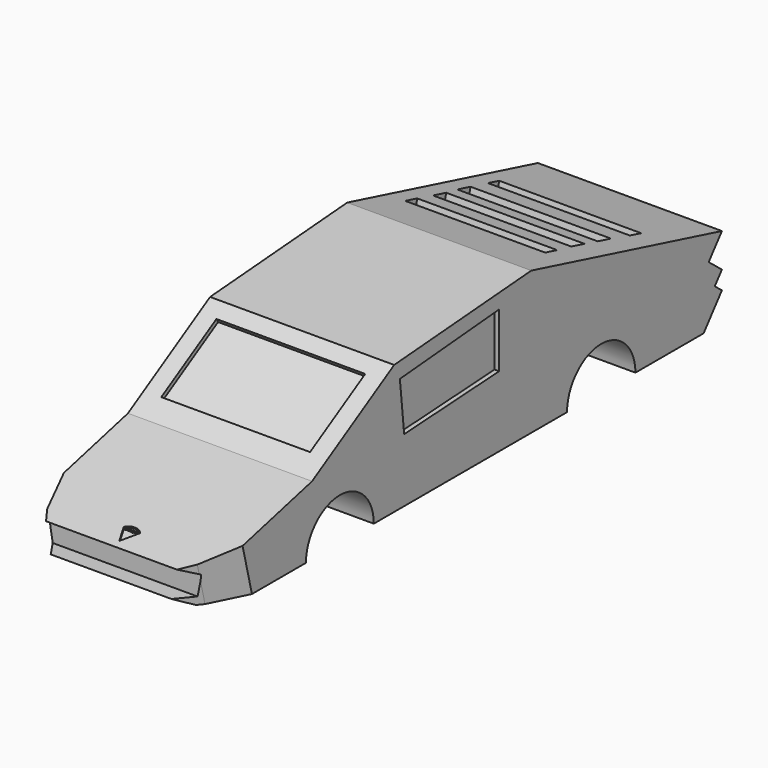
from build123d import *

# Parameters (mm, degrees)
F1_DEPTH  = 20
F4_DEPTH  = 26
F7_DEPTH  = 26
F9_W      = 32.3356613517
F9_H      = 17.4021041021
F10_DEPTH = 25.9
F12_W     = 30.0445994362
F12_H     = 3.6985240877
F12_W_2   = 30.5064963177
F12_H_2   = 3.7062130868
F12_W_3   = 30.8386925608
F12_H_3   = 3.1589530408
F12_W_4   = 30.4109808058
F12_H_4   = 3.369057551
F13_DEPTH = 26.3
F15_W     = 0.0400114234
F15_H     = 0.3749047247
F15_H_2   = 0.2640445573
F16_DEPTH = 25.3
F18_DEPTH = 44.4


with BuildPart() as f1:
    # F0 (on Right) → F1 (new body, symmetric)
    with BuildSketch(Plane.YZ):
        with BuildLine():
            Line((-19.493535161, 17.5538808107), (-41.7995713651, 4.3642241508))
            Line((-41.7995713651, 4.3642241508), (-70.7004368305, -2.8125003446))
            Line((-70.7004368305, -2.8125003446), (-67.2090500593, -4.3642241508))
            Line((-67.2090500593, -4.3642241508), (-67.2090500593, -8.8254315779))
            Line((-67.2090500593, -8.8254315779), (-70.7004368305, -8.8254315779))
            Line((-70.7004368305, -8.8254315779), (-67.2090500593, -10.5711212382))
            Line((-67.2090500593, -10.5711212382), (-43.4498080235, -10.5711212382))
            ThreePointArc((-43.4498080235, -10.5711212382), (-34.2349149287, -1.3562281434), (-25.0200218339, -10.5711212382))
            Line((-25.0200218339, -10.5711212382), (27.4683744969, -10.5711212382))
            ThreePointArc((27.4683744969, -10.5711212382), (36.7564670742, -1.2830286609), (46.0445596515, -10.5711212382))
            Line((46.0445596515, -10.5711212382), (64.5711242514, -10.5711212382))
            Line((64.5711242514, -10.5711212382), (69.5366412401, -4.3642241508))
            Line((69.5366412401, -4.3642241508), (67.5969862163, -2.8125003446))
            Line((67.5969862163, -2.8125003446), (69.5366412401, -0.3879312322))
            Line((69.5366412401, -0.3879312322), (65.9411845042, 2.488433762))
            Line((65.9411845042, 2.488433762), (69.5366412401, 6.9827552985))
            Line((69.5366412401, 6.9827552985), (17.7478455007, 20.4633641988))
            Line((17.7478455007, 20.4633641988), (-19.493535161, 17.5538808107))
        make_face()
    extrude(amount=F1_DEPTH, both=True)

    # F3 (on offset) → F4 (cut)
    with BuildSketch(Plane(origin=(-45, 0, 0), x_dir=(0, -1, 0), z_dir=(-1, 0, 0))):
        Polygon((19.290715456, 15.0474654511), (-5.2431384102, 17.2935221344), (-5.2431384102, 5.8904625475), (19.290715456, 3.8171792403), align=None)
    extrude(amount=-F4_DEPTH, mode=Mode.SUBTRACT)

    # F6 (on offset) → F7 (cut)
    with BuildSketch(Plane.YZ.offset(45)):
        Polygon((9.0193953365, 16.5840536356), (-17.9418120533, 14.2564652488), (-16.7780183256, 3.2004313543), (9.0193953365, 4.7521553934), align=None)
    extrude(amount=-F7_DEPTH, mode=Mode.SUBTRACT)

    # F9 (on offset) → F10 (cut)
    with BuildSketch(Plane(origin=(0, -25.4652766049, 43.0662750775), x_dir=(1, 0, 0), z_dir=(0, -0.508981479, 0.8607774707))):
        with Locations((-0.058369711, -20.0272393413)):
            Rectangle(F9_W, F9_H)
    extrude(amount=-F10_DEPTH, mode=Mode.SUBTRACT)

    # F12 (on offset) → F13 (cut)
    with BuildSketch(Plane(origin=(0, 12.4124530793, 47.6852345395), x_dir=(1, 0, 0), z_dir=(0, 0.251905528, 0.9677518303))):
        with Locations((-0.9459131397, 32.7589828521)):
            Rectangle(F12_W, F12_H)
        with Locations((-1.077524852, 40.0481950492)):
            Rectangle(F12_W_2, F12_H_2)
        with Locations((-0.9114267305, 48.3799185604)):
            Rectangle(F12_W_3, F12_H_3)
        with Locations((-0.8926233277, 24.9602003023)):
            Rectangle(F12_W_4, F12_H_4)
    extrude(amount=-F13_DEPTH, mode=Mode.SUBTRACT)

    # F15 (on offset) → F16 (cut)
    with BuildSketch(Plane(origin=(0, -9.4736704371, 38.1507294787), x_dir=(1, 0, 0), z_dir=(0, -0.2410026983, 0.9705244455))):
        with BuildLine():
            Line((0, -67.7219927311), (1.9441507757, -64.3611550331))
            ThreePointArc((1.9441507757, -64.3611550331), (0.1580702382, -63.5629118601), (-1.6461630585, -64.3192306161))
            Line((-1.6461630585, -64.3192306161), (0, -67.7219927311))
        make_face()
        with Locations((-1.3270840904, -64.3894598215)):
            Rectangle(F15_W, F15_H, mode=Mode.SUBTRACT)
        with BuildLine():
            Line((-1.0302363333, -64.5769121838), (-1.0599172544, -64.5769121838))
            Line((-1.0599172544, -64.5769121838), (-1.0678578644, -64.5392906527))
            Line((-1.0678578644, -64.5392906527), (-1.069785197, -64.5392906527))
            add(Edge.make_bspline(
                [(-1.069785197, -64.5392906527), (-1.0895210821, -64.5641146958), (-1.1091413273, -64.5729418788)],
                knots=[0, 0, 0, 1, 1, 1], degree=2))
            add(Edge.make_bspline(
                [(-1.1091413273, -64.5729418788), (-1.1287615725, -64.5817690618), (-1.1582112137, -64.5817690618)],
                knots=[0, 0, 0, 1, 1, 1], degree=2))
            add(Edge.make_bspline(
                [(-1.1582112137, -64.5817690618), (-1.1974517041, -64.5817690618), (-1.2197316682, -64.5614935235)],
                knots=[0, 0, 0, 1, 1, 1], degree=2))
            add(Edge.make_bspline(
                [(-1.2197316682, -64.5614935235), (-1.2420116323, -64.5412179853), (-1.2420116323, -64.5039048274)],
                knots=[0, 0, 0, 1, 1, 1], degree=2))
            add(Edge.make_bspline(
                [(-1.2420116323, -64.5039048274), (-1.2420116323, -64.4239590738), (-1.1141138453, -64.4201044088)],
                knots=[0, 0, 0, 1, 1, 1], degree=2))
            Line((-1.1141138453, -64.4201044088), (-1.0693226372, -64.418639636))
            Line((-1.0693226372, -64.418639636), (-1.0693226372, -64.4022187628))
            add(Edge.make_bspline(
                [(-1.0693226372, -64.4022187628), (-1.0693226372, -64.3711501624), (-1.0826597783, -64.3563482485)],
                knots=[0, 0, 0, 1, 1, 1], degree=2))
            add(Edge.make_bspline(
                [(-1.0826597783, -64.3563482485), (-1.0959969194, -64.3415463346), (-1.1254465606, -64.3415463346)],
                knots=[0, 0, 0, 1, 1, 1], degree=2))
            add(Edge.make_bspline(
                [(-1.1254465606, -64.3415463346), (-1.1584424936, -64.3415463346), (-1.2000728763, -64.3617447796)],
                knots=[0, 0, 0, 1, 1, 1], degree=2))
            Line((-1.2000728763, -64.3617447796), (-1.2124078046, -64.3311387389))
            add(Edge.make_bspline(
                [(-1.2124078046, -64.3311387389), (-1.1929031993, -64.3205769567), (-1.1696595689, -64.3145636791)],
                knots=[0, 0, 0, 1, 1, 1], degree=2))
            add(Edge.make_bspline(
                [(-1.1696595689, -64.3145636791), (-1.1464159386, -64.3085504016), (-1.1229795749, -64.3085504016)],
                knots=[0, 0, 0, 1, 1, 1], degree=2))
            add(Edge.make_bspline(
                [(-1.1229795749, -64.3085504016), (-1.0757984745, -64.3085504016), (-1.0530174039, -64.329481233)],
                knots=[0, 0, 0, 1, 1, 1], degree=2))
            add(Edge.make_bspline(
                [(-1.0530174039, -64.329481233), (-1.0302363333, -64.3504120643), (-1.0302363333, -64.3966680451)],
                knots=[0, 0, 0, 1, 1, 1], degree=2))
            Line((-1.0302363333, -64.3966680451), (-1.0302363333, -64.5769121838))
        make_face(mode=Mode.SUBTRACT)
        with BuildLine():
            Line((-0.5713770034, -64.5769121838), (-0.6113113335, -64.5769121838))
            Line((-0.6113113335, -64.5769121838), (-0.6113113335, -64.4051483083))
            add(Edge.make_bspline(
                [(-0.6113113335, -64.4051483083), (-0.6113113335, -64.3735400547), (-0.6248026612, -64.3577744746)],
                knots=[0, 0, 0, 1, 1, 1], degree=2))
            add(Edge.make_bspline(
                [(-0.6248026612, -64.3577744746), (-0.638293989, -64.3420088944), (-0.6667414172, -64.3420088944)],
                knots=[0, 0, 0, 1, 1, 1], degree=2))
            add(Edge.make_bspline(
                [(-0.6667414172, -64.3420088944), (-0.7040545751, -64.3420088944), (-0.7219016744, -64.3634408322)],
                knots=[0, 0, 0, 1, 1, 1], degree=2))
            add(Edge.make_bspline(
                [(-0.7219016744, -64.3634408322), (-0.7397487736, -64.38487277), (-0.7397487736, -64.4294326982)],
                knots=[0, 0, 0, 1, 1, 1], degree=2))
            Line((-0.7397487736, -64.4294326982), (-0.7397487736, -64.5769121838))
            Line((-0.7397487736, -64.5769121838), (-0.7797601971, -64.5769121838))
            Line((-0.7797601971, -64.5769121838), (-0.7797601971, -64.4051483083))
            add(Edge.make_bspline(
                [(-0.7797601971, -64.4051483083), (-0.7797601971, -64.3735400547), (-0.7932515248, -64.3577744746)],
                knots=[0, 0, 0, 1, 1, 1], degree=2))
            add(Edge.make_bspline(
                [(-0.7932515248, -64.3577744746), (-0.8067428526, -64.3420088944), (-0.8354215607, -64.3420088944)],
                knots=[0, 0, 0, 1, 1, 1], degree=2))
            add(Edge.make_bspline(
                [(-0.8354215607, -64.3420088944), (-0.8729659985, -64.3420088944), (-0.8904276312, -64.3645201385)],
                knots=[0, 0, 0, 1, 1, 1], degree=2))
            add(Edge.make_bspline(
                [(-0.8904276312, -64.3645201385), (-0.907889264, -64.3870313825), (-0.907889264, -64.4383755212)],
                knots=[0, 0, 0, 1, 1, 1], degree=2))
            Line((-0.907889264, -64.4383755212), (-0.907889264, -64.5769121838))
            Line((-0.907889264, -64.5769121838), (-0.9479006874, -64.5769121838))
            Line((-0.9479006874, -64.5769121838), (-0.9479006874, -64.3128676265))
            Line((-0.9479006874, -64.3128676265), (-0.9153673142, -64.3128676265))
            Line((-0.9153673142, -64.3128676265), (-0.9088914769, -64.3490243849))
            Line((-0.9088914769, -64.3490243849), (-0.9069641444, -64.3490243849))
            add(Edge.make_bspline(
                [(-0.9069641444, -64.3490243849), (-0.8956314291, -64.3297510595), (-0.875008971, -64.318880904)],
                knots=[0, 0, 0, 1, 1, 1], degree=2))
            add(Edge.make_bspline(
                [(-0.875008971, -64.318880904), (-0.8543865128, -64.3080107485), (-0.8288686301, -64.3080107485)],
                knots=[0, 0, 0, 1, 1, 1], degree=2))
            add(Edge.make_bspline(
                [(-0.8288686301, -64.3080107485), (-0.766962709, -64.3080107485), (-0.7479206636, -64.3528790499)],
                knots=[0, 0, 0, 1, 1, 1], degree=2))
            Line((-0.7479206636, -64.3528790499), (-0.7459933311, -64.3528790499))
            add(Edge.make_bspline(
                [(-0.7459933311, -64.3528790499), (-0.7341980559, -64.3321409519), (-0.7118024519, -64.3200758502)],
                knots=[0, 0, 0, 1, 1, 1], degree=2))
            add(Edge.make_bspline(
                [(-0.7118024519, -64.3200758502), (-0.6894068478, -64.3080107485), (-0.6607281397, -64.3080107485)],
                knots=[0, 0, 0, 1, 1, 1], degree=2))
            add(Edge.make_bspline(
                [(-0.6607281397, -64.3080107485), (-0.6159369316, -64.3080107485), (-0.5936569675, -64.331023099)],
                knots=[0, 0, 0, 1, 1, 1], degree=2))
            add(Edge.make_bspline(
                [(-0.5936569675, -64.331023099), (-0.5713770034, -64.3540354495), (-0.5713770034, -64.4046857485)],
                knots=[0, 0, 0, 1, 1, 1], degree=2))
            Line((-0.5713770034, -64.4046857485), (-0.5713770034, -64.5769121838))
        make_face(mode=Mode.SUBTRACT)
        with BuildLine():
            add(Edge.make_bspline(
                [(-0.4489528407, -64.348022172), (-0.4210450656, -64.3085504016), (-0.3660775417, -64.3085504016)],
                knots=[0, 0, 0, 1, 1, 1], degree=2))
            add(Edge.make_bspline(
                [(-0.3660775417, -64.3085504016), (-0.3140395633, -64.3085504016), (-0.2852452152, -64.3440904136)],
                knots=[0, 0, 0, 1, 1, 1], degree=2))
            add(Edge.make_bspline(
                [(-0.2852452152, -64.3440904136), (-0.2564508671, -64.3796304255), (-0.2564508671, -64.4446200786)],
                knots=[0, 0, 0, 1, 1, 1], degree=2))
            add(Edge.make_bspline(
                [(-0.2564508671, -64.4446200786), (-0.2564508671, -64.509686825), (-0.2854764951, -64.5457279434)],
                knots=[0, 0, 0, 1, 1, 1], degree=2))
            add(Edge.make_bspline(
                [(-0.2854764951, -64.5457279434), (-0.3145021231, -64.5817690618), (-0.3660775417, -64.5817690618)],
                knots=[0, 0, 0, 1, 1, 1], degree=2))
            add(Edge.make_bspline(
                [(-0.3660775417, -64.5817690618), (-0.3919037977, -64.5817690618), (-0.4132200955, -64.5722480391)],
                knots=[0, 0, 0, 1, 1, 1], degree=2))
            add(Edge.make_bspline(
                [(-0.4132200955, -64.5722480391), (-0.4345363934, -64.5627270164), (-0.4489528407, -64.5429140379)],
                knots=[0, 0, 0, 1, 1, 1], degree=2))
            Line((-0.4489528407, -64.5429140379), (-0.4518823862, -64.5429140379))
            Line((-0.4518823862, -64.5429140379), (-0.460285556, -64.5769121838))
            Line((-0.460285556, -64.5769121838), (-0.4889642642, -64.5769121838))
            Line((-0.4889642642, -64.5769121838), (-0.4889642642, -64.2020074591))
            Line((-0.4889642642, -64.2020074591), (-0.4489528407, -64.2020074591))
            Line((-0.4489528407, -64.2020074591), (-0.4489528407, -64.2931317414))
            add(Edge.make_bspline(
                [(-0.4489528407, -64.2931317414), (-0.4489528407, -64.323737782), (-0.4508801733, -64.348022172)],
                knots=[0, 0, 0, 1, 1, 1], degree=2))
            Line((-0.4508801733, -64.348022172), (-0.4489528407, -64.348022172))
        make_face(mode=Mode.SUBTRACT)
        with BuildLine():
            add(Edge.make_bspline(
                [(0.0086344498, -64.3448998932), (0.0412834629, -64.381789038), (0.0412834629, -64.4446200786)],
                knots=[0, 0, 0, 1, 1, 1], degree=2))
            add(Edge.make_bspline(
                [(0.0412834629, -64.4446200786), (0.0412834629, -64.5092242652), (0.0087886364, -64.5454966635)],
                knots=[0, 0, 0, 1, 1, 1], degree=2))
            add(Edge.make_bspline(
                [(0.0087886364, -64.5454966635), (-0.0237061902, -64.5817690618), (-0.0810636064, -64.5817690618)],
                knots=[0, 0, 0, 1, 1, 1], degree=2))
            add(Edge.make_bspline(
                [(-0.0810636064, -64.5817690618), (-0.1165265251, -64.5817690618), (-0.1439717404, -64.5651169087)],
                knots=[0, 0, 0, 1, 1, 1], degree=2))
            add(Edge.make_bspline(
                [(-0.1439717404, -64.5651169087), (-0.1714169557, -64.5484647556), (-0.1863730561, -64.5173961551)],
                knots=[0, 0, 0, 1, 1, 1], degree=2))
            add(Edge.make_bspline(
                [(-0.1863730561, -64.5173961551), (-0.2013291566, -64.4863275547), (-0.2013291566, -64.4446200786)],
                knots=[0, 0, 0, 1, 1, 1], degree=2))
            add(Edge.make_bspline(
                [(-0.2013291566, -64.4446200786), (-0.2013291566, -64.3800929853), (-0.1690270633, -64.3440518669)],
                knots=[0, 0, 0, 1, 1, 1], degree=2))
            add(Edge.make_bspline(
                [(-0.1690270633, -64.3440518669), (-0.13672497, -64.3080107485), (-0.0793675538, -64.3080107485)],
                knots=[0, 0, 0, 1, 1, 1], degree=2))
            add(Edge.make_bspline(
                [(-0.0793675538, -64.3080107485), (-0.0240145634, -64.3080107485), (0.0086344498, -64.3448998932)],
                knots=[0, 0, 0, 1, 1, 1], degree=2))
        make_face(mode=Mode.SUBTRACT)
        with BuildLine():
            add(Edge.make_bspline(
                [(0.1863730561, -64.3220031827), (0.2071111542, -64.3080107485), (0.2319351973, -64.3080107485)],
                knots=[0, 0, 0, 1, 1, 1], degree=2))
            add(Edge.make_bspline(
                [(0.2319351973, -64.3080107485), (0.24951247, -64.3080107485), (0.2634663576, -64.310940294)],
                knots=[0, 0, 0, 1, 1, 1], degree=2))
            Line((0.2634663576, -64.310940294), (0.2579156399, -64.348022172))
            add(Edge.make_bspline(
                [(0.2579156399, -64.348022172), (0.24157186, -64.3443987868), (0.2290056518, -64.3443987868)],
                knots=[0, 0, 0, 1, 1, 1], degree=2))
            add(Edge.make_bspline(
                [(0.2290056518, -64.3443987868), (0.1969348384, -64.3443987868), (0.1741923145, -64.370417776)],
                knots=[0, 0, 0, 1, 1, 1], degree=2))
            add(Edge.make_bspline(
                [(0.1741923145, -64.370417776), (0.1514497906, -64.3964367652), (0.1514497906, -64.4352146958)],
                knots=[0, 0, 0, 1, 1, 1], degree=2))
            Line((0.1514497906, -64.4352146958), (0.1514497906, -64.5769121838))
            Line((0.1514497906, -64.5769121838), (0.1114383672, -64.5769121838))
            Line((0.1114383672, -64.5769121838), (0.1114383672, -64.3128676265))
            Line((0.1114383672, -64.3128676265), (0.1444343002, -64.3128676265))
            Line((0.1444343002, -64.3128676265), (0.1490598983, -64.3617447796))
            Line((0.1490598983, -64.3617447796), (0.1509872308, -64.3617447796))
            add(Edge.make_bspline(
                [(0.1509872308, -64.3617447796), (0.1656349581, -64.3359956169), (0.1863730561, -64.3220031827)],
                knots=[0, 0, 0, 1, 1, 1], degree=2))
        make_face(mode=Mode.SUBTRACT)
        with BuildLine():
            Line((0.4376972187, -64.3128676265), (0.5289756876, -64.3128676265))
            Line((0.5289756876, -64.3128676265), (0.5289756876, -64.3381542294))
            Line((0.5289756876, -64.3381542294), (0.4800985345, -64.343936227))
            add(Edge.make_bspline(
                [(0.4800985345, -64.343936227), (0.4868056517, -64.3523393968), (0.4921250895, -64.3659849112)],
                knots=[0, 0, 0, 1, 1, 1], degree=2))
            add(Edge.make_bspline(
                [(0.4921250895, -64.3659849112), (0.4974445273, -64.3796304255), (0.4974445273, -64.3966680451)],
                knots=[0, 0, 0, 1, 1, 1], degree=2))
            add(Edge.make_bspline(
                [(0.4974445273, -64.3966680451), (0.4974445273, -64.4355230691), (0.4709244316, -64.4586510595)],
                knots=[0, 0, 0, 1, 1, 1], degree=2))
            add(Edge.make_bspline(
                [(0.4709244316, -64.4586510595), (0.444404336, -64.4817790499), (0.3981483551, -64.4817790499)],
                knots=[0, 0, 0, 1, 1, 1], degree=2))
            add(Edge.make_bspline(
                [(0.3981483551, -64.4817790499), (0.38635308, -64.4817790499), (0.3760225776, -64.4798517174)],
                knots=[0, 0, 0, 1, 1, 1], degree=2))
            add(Edge.make_bspline(
                [(0.3760225776, -64.4798517174), (0.3505046948, -64.4933430451), (0.3505046948, -64.51377277)],
                knots=[0, 0, 0, 1, 1, 1], degree=2))
            add(Edge.make_bspline(
                [(0.3505046948, -64.51377277), (0.3505046948, -64.5246429255), (0.3594089712, -64.5298081767)],
                knots=[0, 0, 0, 1, 1, 1], degree=2))
            add(Edge.make_bspline(
                [(0.3594089712, -64.5298081767), (0.3683132475, -64.5349734279), (0.3899764652, -64.5349734279)],
                knots=[0, 0, 0, 1, 1, 1], degree=2))
            Line((0.3899764652, -64.5349734279), (0.4366950058, -64.5349734279))
            add(Edge.make_bspline(
                [(0.4366950058, -64.5349734279), (0.4796359747, -64.5349734279), (0.5026097785, -64.553051807)],
                knots=[0, 0, 0, 1, 1, 1], degree=2))
            add(Edge.make_bspline(
                [(0.5026097785, -64.553051807), (0.5255835823, -64.5711301862), (0.5255835823, -64.605590892)],
                knots=[0, 0, 0, 1, 1, 1], degree=2))
            add(Edge.make_bspline(
                [(0.5255835823, -64.605590892), (0.5255835823, -64.6494569805), (0.4904290369, -64.6724693309)],
                knots=[0, 0, 0, 1, 1, 1], degree=2))
            add(Edge.make_bspline(
                [(0.4904290369, -64.6724693309), (0.4552744915, -64.6954816814), (0.3878178527, -64.6954816814)],
                knots=[0, 0, 0, 1, 1, 1], degree=2))
            add(Edge.make_bspline(
                [(0.3878178527, -64.6954816814), (0.3360111542, -64.6954816814), (0.3079491925, -64.676208356)],
                knots=[0, 0, 0, 1, 1, 1], degree=2))
            add(Edge.make_bspline(
                [(0.3079491925, -64.676208356), (0.2798872308, -64.6569350307), (0.2798872308, -64.6217033919)],
                knots=[0, 0, 0, 1, 1, 1], degree=2))
            add(Edge.make_bspline(
                [(0.2798872308, -64.6217033919), (0.2798872308, -64.5976502819), (0.295305891, -64.5800344625)],
                knots=[0, 0, 0, 1, 1, 1], degree=2))
            add(Edge.make_bspline(
                [(0.295305891, -64.5800344625), (0.3107245513, -64.5624186432), (0.3386323264, -64.5561740858)],
                knots=[0, 0, 0, 1, 1, 1], degree=2))
            add(Edge.make_bspline(
                [(0.3386323264, -64.5561740858), (0.3285331039, -64.551625581), (0.3216718001, -64.5419889183)],
                knots=[0, 0, 0, 1, 1, 1], degree=2))
            add(Edge.make_bspline(
                [(0.3216718001, -64.5419889183), (0.3148104963, -64.5323522556), (0.3148104963, -64.5195547676)],
                knots=[0, 0, 0, 1, 1, 1], degree=2))
            add(Edge.make_bspline(
                [(0.3148104963, -64.5195547676), (0.3148104963, -64.5051383202), (0.3225198264, -64.4942681647)],
                knots=[0, 0, 0, 1, 1, 1], degree=2))
            add(Edge.make_bspline(
                [(0.3225198264, -64.4942681647), (0.3302291566, -64.4833980092), (0.3468813097, -64.4732987867)],
                knots=[0, 0, 0, 1, 1, 1], degree=2))
            add(Edge.make_bspline(
                [(0.3468813097, -64.4732987867), (0.3263744915, -64.4648956169), (0.3134999102, -64.4446586253)],
                knots=[0, 0, 0, 1, 1, 1], degree=2))
            add(Edge.make_bspline(
                [(0.3134999102, -64.4446586253), (0.3006253288, -64.4244216336), (0.3006253288, -64.3983640978)],
                knots=[0, 0, 0, 1, 1, 1], degree=2))
            add(Edge.make_bspline(
                [(0.3006253288, -64.3983640978), (0.3006253288, -64.3550376624), (0.3266443181, -64.3315242055)],
                knots=[0, 0, 0, 1, 1, 1], degree=2))
            add(Edge.make_bspline(
                [(0.3266443181, -64.3315242055), (0.3526633073, -64.3080107485), (0.4003069676, -64.3080107485)],
                knots=[0, 0, 0, 1, 1, 1], degree=2))
            add(Edge.make_bspline(
                [(0.4003069676, -64.3080107485), (0.4210450656, -64.3080107485), (0.4376972187, -64.3128676265)],
                knots=[0, 0, 0, 1, 1, 1], degree=2))
        make_face(mode=Mode.SUBTRACT)
        with BuildLine():
            Line((0.8038904004, -64.5769121838), (0.763878977, -64.5769121838))
            Line((0.763878977, -64.5769121838), (0.763878977, -64.4060734279))
            add(Edge.make_bspline(
                [(0.763878977, -64.4060734279), (0.763878977, -64.3738484279), (0.7491927031, -64.3579286612)],
                knots=[0, 0, 0, 1, 1, 1], degree=2))
            add(Edge.make_bspline(
                [(0.7491927031, -64.3579286612), (0.7345064291, -64.3420088944), (0.7031294555, -64.3420088944)],
                knots=[0, 0, 0, 1, 1, 1], degree=2))
            add(Edge.make_bspline(
                [(0.7031294555, -64.3420088944), (0.6614990727, -64.3420088944), (0.6423413873, -64.3646743251)],
                knots=[0, 0, 0, 1, 1, 1], degree=2))
            add(Edge.make_bspline(
                [(0.6423413873, -64.3646743251), (0.6231837019, -64.3873397557), (0.6231837019, -64.438838081)],
                knots=[0, 0, 0, 1, 1, 1], degree=2))
            Line((0.6231837019, -64.438838081), (0.6231837019, -64.5769121838))
            Line((0.6231837019, -64.5769121838), (0.5831722785, -64.5769121838))
            Line((0.5831722785, -64.5769121838), (0.5831722785, -64.2020074591))
            Line((0.5831722785, -64.2020074591), (0.6231837019, -64.2020074591))
            Line((0.6231837019, -64.2020074591), (0.6231837019, -64.3154887988))
            add(Edge.make_bspline(
                [(0.6231837019, -64.3154887988), (0.6231837019, -64.3359956169), (0.6212563694, -64.3494869447)],
                knots=[0, 0, 0, 1, 1, 1], degree=2))
            Line((0.6212563694, -64.3494869447), (0.6236462617, -64.3494869447))
            add(Edge.make_bspline(
                [(0.6236462617, -64.3494869447), (0.6354415368, -64.3304448992), (0.6572589411, -64.3194976504)],
                knots=[0, 0, 0, 1, 1, 1], degree=2))
            add(Edge.make_bspline(
                [(0.6572589411, -64.3194976504), (0.6790763454, -64.3085504016), (0.7069841205, -64.3085504016)],
                knots=[0, 0, 0, 1, 1, 1], degree=2))
            add(Edge.make_bspline(
                [(0.7069841205, -64.3085504016), (0.7553987138, -64.3085504016), (0.7796445571, -64.3315627521)],
                knots=[0, 0, 0, 1, 1, 1], degree=2))
            add(Edge.make_bspline(
                [(0.7796445571, -64.3315627521), (0.8038904004, -64.3545751026), (0.8038904004, -64.4046857485)],
                knots=[0, 0, 0, 1, 1, 1], degree=2))
            Line((0.8038904004, -64.4046857485), (0.8038904004, -64.5769121838))
        make_face(mode=Mode.SUBTRACT)
        with Locations((0.9060004781, -64.4448899052)):
            Rectangle(F15_W, F15_H_2, mode=Mode.SUBTRACT)
        with BuildLine():
            add(Edge.make_bspline(
                [(0.889348325, -64.2614463945), (0.8826026611, -64.2548163706), (0.8826026611, -64.2413250428)],
                knots=[0, 0, 0, 1, 1, 1], degree=2))
            add(Edge.make_bspline(
                [(0.8826026611, -64.2413250428), (0.8826026611, -64.2276024352), (0.889348325, -64.2212036911)],
                knots=[0, 0, 0, 1, 1, 1], degree=2))
            add(Edge.make_bspline(
                [(0.889348325, -64.2212036911), (0.8960939889, -64.2148049471), (0.9062703047, -64.2148049471)],
                knots=[0, 0, 0, 1, 1, 1], degree=2))
            add(Edge.make_bspline(
                [(0.9062703047, -64.2148049471), (0.9159069674, -64.2148049471), (0.9228839111, -64.2213193311)],
                knots=[0, 0, 0, 1, 1, 1], degree=2))
            add(Edge.make_bspline(
                [(0.9228839111, -64.2213193311), (0.9298608549, -64.2278337151), (0.9298608549, -64.2413250428)],
                knots=[0, 0, 0, 1, 1, 1], degree=2))
            add(Edge.make_bspline(
                [(0.9298608549, -64.2413250428), (0.9298608549, -64.2548163706), (0.9228839111, -64.2614463945)],
                knots=[0, 0, 0, 1, 1, 1], degree=2))
            add(Edge.make_bspline(
                [(0.9228839111, -64.2614463945), (0.9159069674, -64.2680764184), (0.9062703047, -64.2680764184)],
                knots=[0, 0, 0, 1, 1, 1], degree=2))
            add(Edge.make_bspline(
                [(0.9062703047, -64.2680764184), (0.8960939889, -64.2680764184), (0.889348325, -64.2614463945)],
                knots=[0, 0, 0, 1, 1, 1], degree=2))
        make_face(mode=Mode.SUBTRACT)
        with BuildLine():
            Line((1.2315269433, -64.5769121838), (1.1915155199, -64.5769121838))
            Line((1.1915155199, -64.5769121838), (1.1915155199, -64.4060734279))
            add(Edge.make_bspline(
                [(1.1915155199, -64.4060734279), (1.1915155199, -64.3738484279), (1.176829246, -64.3579286612)],
                knots=[0, 0, 0, 1, 1, 1], degree=2))
            add(Edge.make_bspline(
                [(1.176829246, -64.3579286612), (1.162142972, -64.3420088944), (1.1307659984, -64.3420088944)],
                knots=[0, 0, 0, 1, 1, 1], degree=2))
            add(Edge.make_bspline(
                [(1.1307659984, -64.3420088944), (1.0893668955, -64.3420088944), (1.0700935702, -64.3644044985)],
                knots=[0, 0, 0, 1, 1, 1], degree=2))
            add(Edge.make_bspline(
                [(1.0700935702, -64.3644044985), (1.0508202448, -64.3868001026), (1.0508202448, -64.4383755212)],
                knots=[0, 0, 0, 1, 1, 1], degree=2))
            Line((1.0508202448, -64.4383755212), (1.0508202448, -64.5769121838))
            Line((1.0508202448, -64.5769121838), (1.0108088214, -64.5769121838))
            Line((1.0108088214, -64.5769121838), (1.0108088214, -64.3128676265))
            Line((1.0108088214, -64.3128676265), (1.0433421946, -64.3128676265))
            Line((1.0433421946, -64.3128676265), (1.0498180319, -64.3490243849))
            Line((1.0498180319, -64.3490243849), (1.0517453644, -64.3490243849))
            add(Edge.make_bspline(
                [(1.0517453644, -64.3490243849), (1.0640802927, -64.3295197796), (1.0862446168, -64.3187652641)],
                knots=[0, 0, 0, 1, 1, 1], degree=2))
            add(Edge.make_bspline(
                [(1.0862446168, -64.3187652641), (1.108408941, -64.3080107485), (1.1356228764, -64.3080107485)],
                knots=[0, 0, 0, 1, 1, 1], degree=2))
            add(Edge.make_bspline(
                [(1.1356228764, -64.3080107485), (1.1833436299, -64.3080107485), (1.2074352866, -64.331023099)],
                knots=[0, 0, 0, 1, 1, 1], degree=2))
            add(Edge.make_bspline(
                [(1.2074352866, -64.331023099), (1.2315269433, -64.3540354495), (1.2315269433, -64.4046857485)],
                knots=[0, 0, 0, 1, 1, 1], degree=2))
            Line((1.2315269433, -64.4046857485), (1.2315269433, -64.5769121838))
        make_face(mode=Mode.SUBTRACT)
        with Locations((1.333637021, -64.4448899052)):
            Rectangle(F15_W, F15_H_2, mode=Mode.SUBTRACT)
        with BuildLine():
            add(Edge.make_bspline(
                [(1.3169848679, -64.2614463945), (1.310239204, -64.2548163706), (1.310239204, -64.2413250428)],
                knots=[0, 0, 0, 1, 1, 1], degree=2))
            add(Edge.make_bspline(
                [(1.310239204, -64.2413250428), (1.310239204, -64.2276024352), (1.3169848679, -64.2212036911)],
                knots=[0, 0, 0, 1, 1, 1], degree=2))
            add(Edge.make_bspline(
                [(1.3169848679, -64.2212036911), (1.3237305318, -64.2148049471), (1.3339068476, -64.2148049471)],
                knots=[0, 0, 0, 1, 1, 1], degree=2))
            add(Edge.make_bspline(
                [(1.3339068476, -64.2148049471), (1.3435435103, -64.2148049471), (1.350520454, -64.2213193311)],
                knots=[0, 0, 0, 1, 1, 1], degree=2))
            add(Edge.make_bspline(
                [(1.350520454, -64.2213193311), (1.3574973978, -64.2278337151), (1.3574973978, -64.2413250428)],
                knots=[0, 0, 0, 1, 1, 1], degree=2))
            add(Edge.make_bspline(
                [(1.3574973978, -64.2413250428), (1.3574973978, -64.2548163706), (1.350520454, -64.2614463945)],
                knots=[0, 0, 0, 1, 1, 1], degree=2))
            add(Edge.make_bspline(
                [(1.350520454, -64.2614463945), (1.3435435103, -64.2680764184), (1.3339068476, -64.2680764184)],
                knots=[0, 0, 0, 1, 1, 1], degree=2))
            add(Edge.make_bspline(
                [(1.3339068476, -64.2680764184), (1.3237305318, -64.2680764184), (1.3169848679, -64.2614463945)],
                knots=[0, 0, 0, 1, 1, 1], degree=2))
        make_face(mode=Mode.SUBTRACT)
    extrude(amount=-F16_DEPTH, mode=Mode.SUBTRACT)

    # F17 (on offset) → F18 (cut)
    with BuildSketch(Plane(origin=(0, -9.4736704371, 38.1507294787), x_dir=(1, 0, 0), z_dir=(0, -0.2410026983, 0.9705244455))):
        Polygon((-26.5234652907, -74.4760856032), (-11.0737262294, -74.4760856032), (-16.5466219187, -66.5958598256), (-20.4152017832, -56.3461072743), align=None)
        Polygon((16.0958841443, -66.5958598256), (9.387482889, -74.4760856032), (23.3180951327, -75.0723183155), (21.3353038593, -56.3461072743), align=None)
    extrude(amount=-F18_DEPTH, mode=Mode.SUBTRACT)


solid = f1.part
